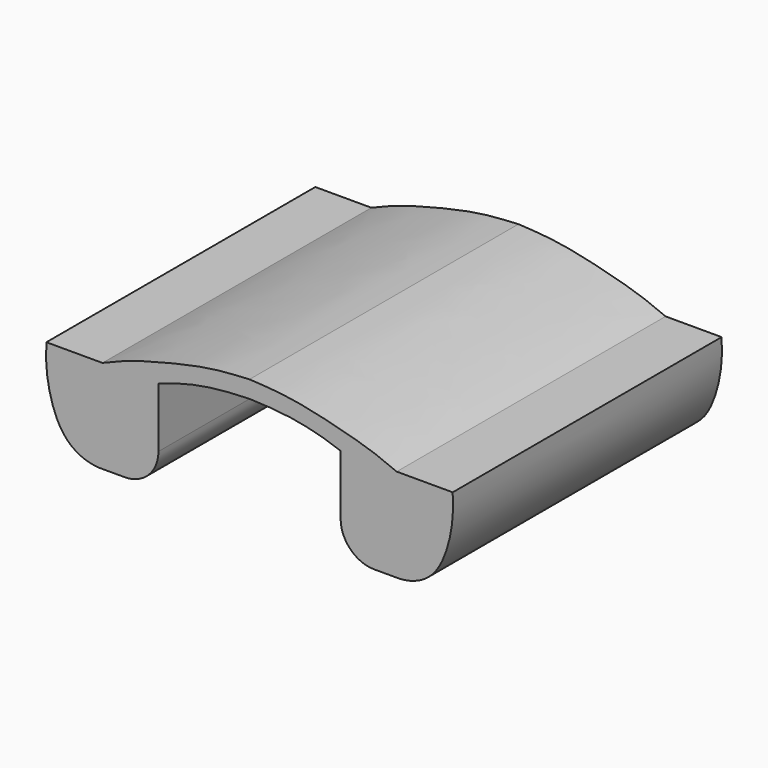
from build123d import *

# Parameters (mm, degrees)
F1_DEPTH = 90


with BuildPart() as f1:
    # F0 (on Front) → F1 (new body)
    with BuildSketch(Plane.XZ):
        with BuildLine():
            Line((54.3923101205, -6.9459271067), (39.3923101205, -6.9459271067))
            Line((39.3923101205, -6.9459271067), (24.3923101205, -6.9459271067))
            Line((24.3923101205, -6.9459271067), (24.3923101205, -22.9459271067))
            ThreePointArc((24.3923101205, -22.9459271067), (27.0283490898, -29.3098881374), (33.3923101205, -31.9459271067))
            Line((33.3923101205, -31.9459271067), (39.3923101205, -31.9459271067))
            add(Edge.make_bspline(
                [(54.3923101205, -6.9459271067), (54.7600798309, -12.4650411308), (53.5760512989, -19.2747786322), (51.1416965676, -25.5090219107), (47.6191843875, -29.9359194122), (42.847190561, -31.9967957119), (39.3923101205, -31.9459271067)],
                knots=[0, 0, 0, 0, 0.318087546, 0.5385673182, 0.7419978267, 1, 1, 1, 1], degree=3))
        make_face()
        with BuildLine():
            Line((24.3923101205, -6.9459271067), (39.3923101205, -6.9459271067))
            add(Edge.make_bspline(
                [(39.3923101205, -6.9459271067), (34.4260372221, -4.787703976), (28.490868897, -2.8215542068), (10.9690373288, 1.5413653414), (3.5167664753, 1.7551726321), (0, 1.991873607)],
                knots=[0, 0, 0, 0, 0.3219844291, 0.6966090332, 1, 1, 1, 1], degree=3))
            add(Edge.make_bspline(
                [(-39.3923101205, -6.9459271067), (-34.4260372221, -4.787703976), (-28.490868897, -2.8215542068), (-10.9690373288, 1.5413653414), (-3.5167664753, 1.7551726321), (0, 1.991873607)],
                knots=[0, 0, 0, 0, 0.3219844291, 0.6966090332, 1, 1, 1, 1], degree=3))
            Line((-39.3923101205, -6.9459271067), (-24.3923101205, -6.9459271067))
            add(Edge.make_bspline(
                [(-24.3923101205, -6.9459271067), (-19.7168922052, -5.166058033), (-11.2405807669, -3.1169609653), (-3.7964381143, -2.7464545273), (0, -2.6104990393)],
                knots=[0, 0, 0, 0, 0.5268022864, 1, 1, 1, 1], degree=3))
            add(Edge.make_bspline(
                [(24.3923101205, -6.9459271067), (19.7168922052, -5.166058033), (11.2405807669, -3.1169609653), (3.7964381143, -2.7464545273), (0, -2.6104990393)],
                knots=[0, 0, 0, 0, 0.5268022864, 1, 1, 1, 1], degree=3))
        make_face()
        with BuildLine():
            Line((-24.3923101205, -6.9459271067), (-39.3923101205, -6.9459271067))
            Line((-39.3923101205, -6.9459271067), (-54.3923101205, -6.9459271067))
            add(Edge.make_bspline(
                [(-54.3923101205, -6.9459271067), (-54.7600798309, -12.4650411308), (-53.5760512989, -19.2747786322), (-51.1416965676, -25.5090219107), (-47.6191843875, -29.9359194122), (-42.847190561, -31.9967957119), (-39.3923101205, -31.9459271067)],
                knots=[0, 0, 0, 0, 0.318087546, 0.5385673182, 0.7419978267, 1, 1, 1, 1], degree=3))
            Line((-39.3923101205, -31.9459271067), (-33.3923101205, -31.9459271067))
            ThreePointArc((-33.3923101205, -31.9459271067), (-27.0283490898, -29.3098881374), (-24.3923101205, -22.9459271067))
            Line((-24.3923101205, -22.9459271067), (-24.3923101205, -6.9459271067))
        make_face()
    extrude(amount=F1_DEPTH)


solid = f1.part
